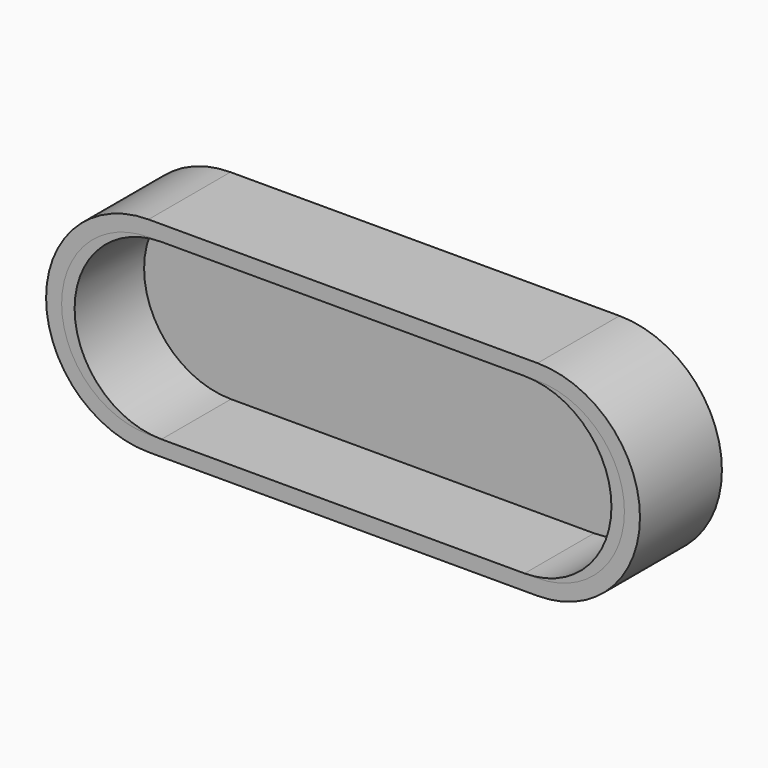
from build123d import *

# Parameters (mm, degrees)
F1_DEPTH = 7.9
F2_T     = -1.2
F4_DEPTH = 7.9
F5_T     = -1.2


with BuildPart() as f1:
    # F0 (on Front) → F1 (new body)
    with BuildSketch(Plane.XZ):
        with BuildLine():
            ThreePointArc((-14, 7.9), (-21.9, 0), (-14, -7.9))
            Line((-14, -7.9), (14, -7.9))
            ThreePointArc((14, -7.9), (21.9, 0), (14, 7.9))
            Line((14, 7.9), (-14, 7.9))
        make_face()
    extrude(amount=F1_DEPTH)

    # F2
    f2_openings = [f1.faces().sort_by_distance(p)[0] for p in [
        (0, -7.9, 0),
    ]]
    offset(amount=F2_T, openings=f2_openings)


with BuildPart() as f4:
    # F3 (on Front) → F4 (new body)
    with BuildSketch(Plane.XZ):
        with BuildLine():
            ThreePointArc((-15, 7.9), (-22.9, 0), (-15, -7.9))
            Line((-15, -7.9), (15, -7.9))
            ThreePointArc((15, -7.9), (22.9, 0), (15, 7.9))
            Line((15, 7.9), (-15, 7.9))
        make_face()
    extrude(amount=F4_DEPTH)

    # F5
    f5_openings = [f4.faces().sort_by_distance(p)[0] for p in [
        (0, -7.9, 0),
    ]]
    offset(amount=F5_T, openings=f5_openings)


solid = Compound([f1.part, f4.part])
